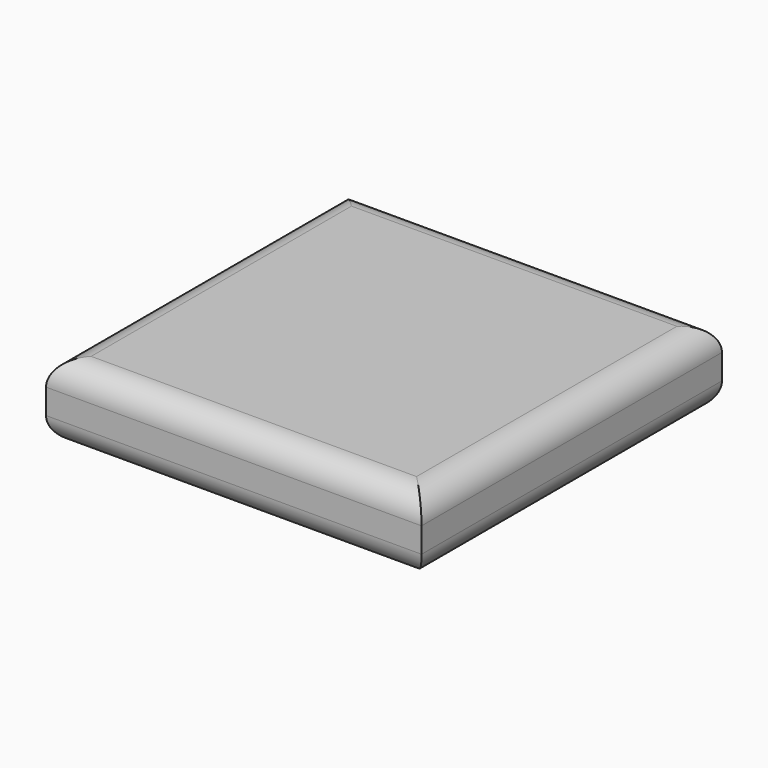
from build123d import *

# Parameters (mm, degrees)
SKETCH_W  = 30
SKETCH_H  = 30
PAD_DEPTH = 6
FILLET_R  = 2


with BuildPart() as part:
    # Sketch → Pad (new body)
    with BuildSketch(Plane.XY):
        Rectangle(SKETCH_W, SKETCH_H)
    extrude(amount=PAD_DEPTH)

    # Fillet
    fillet_edges = [part.edges().sort_by_distance(p)[0] for p in [
        (0, -15, 6),
        (-15, 0, 6),
        (0, 15, 6),
        (15, 0, 6),
        (-15, 0, 0),
        (0, -15, 0),
        (0, 15, 0),
        (15, 0, 0),
    ]]
    fillet(fillet_edges, radius=FILLET_R)


solid = part.part
